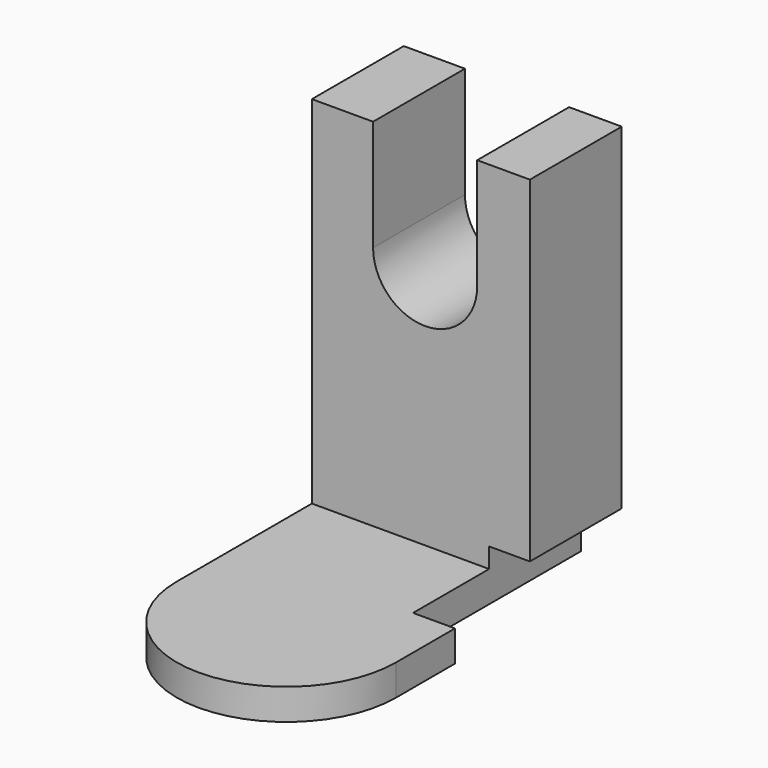
from build123d import *

# Parameters (mm, degrees)
F0_W     = 48.2076276094
F0_H     = 85.6006219983
F1_DEPTH = 25.4
F3_DEPTH = 25.4
F4_W     = 10.3362295777
F4_H     = 11.2576633692
F4_W_2   = 2.2321604192
F5_DEPTH = 25.4
F7_DEPTH = 6.858


with BuildPart() as f1:
    # F0 (on Front) → F1 (new body)
    with BuildSketch(Plane.XZ):
        with Locations((2.2912370041, -3.8492791355)):
            Rectangle(F0_W, F0_H)
    extrude(amount=F1_DEPTH)

    # F2 (on face) → F3 (cut)
    with BuildSketch(Plane.XZ.offset(25.4)):
        with BuildLine():
            Line((14.7487549111, 38.9510318637), (-8.2807904109, 38.9510318637))
            Line((-8.2807904109, 38.9510318637), (-8.2807904109, 14.4174993038))
            ThreePointArc((-8.2807904109, 14.4174993038), (3.2339822501, 2.9027266428), (14.7487549111, 14.4174993038))
            Line((14.7487549111, 14.4174993038), (14.7487549111, 38.9510318637))
        make_face()
    extrude(amount=-F3_DEPTH, mode=Mode.SUBTRACT)

    # F4 (on face) → F5 (cut)
    with BuildSketch(Plane.XZ.offset(25.4)):
        with Locations((22.5512860343, -41.02075845)):
            Rectangle(F4_W, F4_H)
        with Locations((28.8354810327, -41.02075845)):
            Rectangle(F4_W_2, F4_H)
    extrude(amount=-F5_DEPTH, mode=Mode.SUBTRACT)

    # F6 (on face) → F7 (join)
    with BuildSketch(Plane(origin=(0, 0, -46.6495901346), x_dir=(1, 0, 0), z_dir=(0, 0, -1))):
        with BuildLine():
            Line((-21.8125768006, 62.740623951), (-21.8125768006, 25.4))
            Line((-21.8125768006, 25.4), (17.3831712455, 25.4))
            Line((17.3831712455, 25.4), (17.3831712455, 46.4270114899))
            Line((17.3831712455, 46.4270114899), (26.6548879445, 46.4270114899))
            Line((26.6548879445, 46.4270114899), (26.6548879445, 62.740623951))
            ThreePointArc((26.6548879445, 62.740623951), (2.4211555719, 86.9743563235), (-21.8125768006, 62.740623951))
        make_face()
    extrude(amount=-F7_DEPTH)


solid = f1.part
